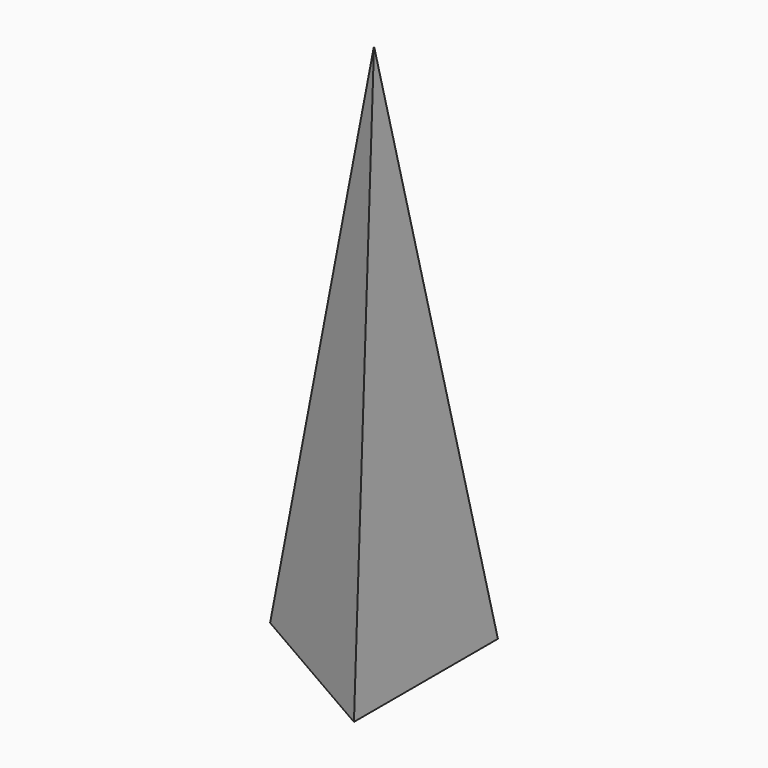
from build123d import *


with BuildPart() as f3:
    # F0 (on Top) → F3 section 0
    with BuildSketch(Plane.XY, mode=Mode.PRIVATE) as f3_s0:
        Polygon((47.955226, -83.060888), (47.955226, 83.060888), (-95.910452, 0), align=None)
    loft([f3_s0.sketch, Vertex(0, 0, 500)])


solid = f3.part
